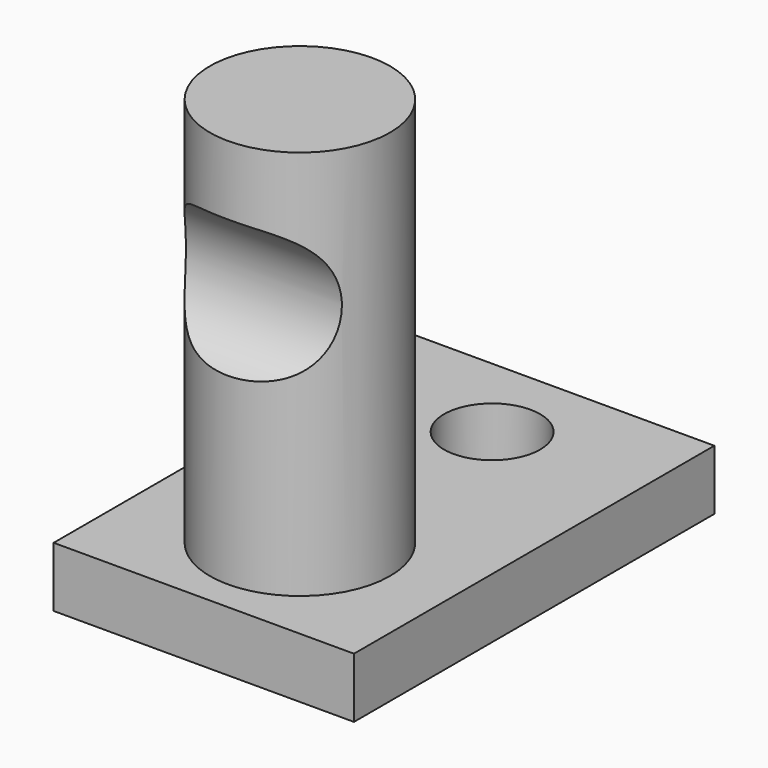
from build123d import *

# Parameters (mm, degrees)
F0_W     = 10
F0_H     = 15
F0_R     = 3
F0_R_2   = 1.6
F1_DEPTH = 2
F3_DEPTH = 15
F2_R     = 2.5
F4_DEPTH = 10.001


with BuildPart() as f1:
    # F0 (on Top) → F1 (new body)
    with BuildSketch(Plane.XY):
        with Locations((5, 7.5)):
            Rectangle(F0_W, F0_H)
        with Locations((5, 4)):
            Circle(F0_R, mode=Mode.SUBTRACT)
        with Locations((5, 12)):
            Circle(F0_R_2, mode=Mode.SUBTRACT)
    extrude(amount=F1_DEPTH)

    # F0 (on Top) → F3 (join)
    with BuildSketch(Plane.XY):
        with Locations((5, 4)):
            Circle(F0_R)
    extrude(amount=F3_DEPTH)

    # F2 (on Right) → F4 (cut, through all)
    with BuildSketch(Plane.YZ):
        with Locations((0, 10.407558)):
            Circle(F2_R)
    extrude(amount=F4_DEPTH, mode=Mode.SUBTRACT)


solid = f1.part
